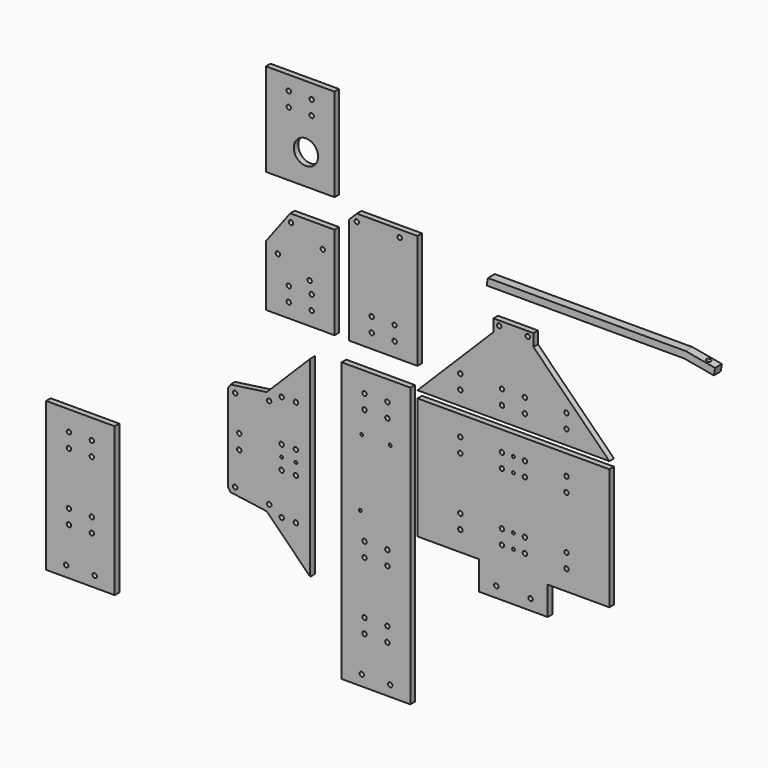
from build123d import *

# Parameters (mm, degrees)
F0_R      = 1.55
F0_R_2    = 1
F1_DEPTH  = 4
F2_DEPTH  = 4
F0_W      = 48
F0_H      = 195
F3_DEPTH  = 4
F4_DEPTH  = 4
F0_H_2    = 65
F0_R_3    = 8.5
F5_DEPTH  = 4
F6_DEPTH  = 6
F7_R      = 1.55
F8_DEPTH  = 6
F9_R      = 1.55
F10_DEPTH = 25
F9_R_2    = 2.25
F11_DEPTH = 30
F9_R_3    = 2.375
F12_DEPTH = 10
F13_R     = 1.55
F14_DEPTH = 2
F0_H_3    = 104
F15_DEPTH = 4


with BuildPart() as f1:
    # F0 (on Front) → F1 (new body)
    with BuildSketch(Plane.XZ):
        Polygon((134.2, -5), (0, -5), (0, -90), (43.1, -90), (43.1, -110), (91.1, -110), (91.1, -90), (134.2, -90), align=None)
        with Locations((30, -76)):
            Circle(F0_R, mode=Mode.SUBTRACT)
        with Locations((30, -66)):
            Circle(F0_R, mode=Mode.SUBTRACT)
        with Locations((55.1306, -102.5)):
            Circle(F0_R, mode=Mode.SUBTRACT)
        with Locations((79.1, -102.5)):
            Circle(F0_R, mode=Mode.SUBTRACT)
        with Locations((59.1, -76)):
            Circle(F0_R, mode=Mode.SUBTRACT)
        with Locations((59.1, -66)):
            Circle(F0_R, mode=Mode.SUBTRACT)
        with Locations((67.1153, -76)):
            Circle(F0_R_2, mode=Mode.SUBTRACT)
        with Locations((75.1306, -76)):
            Circle(F0_R, mode=Mode.SUBTRACT)
        with Locations((67.1153, -66)):
            Circle(F0_R_2, mode=Mode.SUBTRACT)
        with Locations((75.1306, -66)):
            Circle(F0_R, mode=Mode.SUBTRACT)
        with Locations((30, -29)):
            Circle(F0_R, mode=Mode.SUBTRACT)
        with Locations((30, -19)):
            Circle(F0_R, mode=Mode.SUBTRACT)
        with Locations((59.1, -29)):
            Circle(F0_R, mode=Mode.SUBTRACT)
        with Locations((59.1, -19)):
            Circle(F0_R, mode=Mode.SUBTRACT)
        with Locations((67.1153, -29)):
            Circle(F0_R_2, mode=Mode.SUBTRACT)
        with Locations((75.1306, -29)):
            Circle(F0_R, mode=Mode.SUBTRACT)
        with Locations((67.1153, -19)):
            Circle(F0_R_2, mode=Mode.SUBTRACT)
        with Locations((75.1306, -19)):
            Circle(F0_R, mode=Mode.SUBTRACT)
        with Locations((104.2306, -76)):
            Circle(F0_R, mode=Mode.SUBTRACT)
        with Locations((104.2306, -66)):
            Circle(F0_R, mode=Mode.SUBTRACT)
        with Locations((104.2306, -29)):
            Circle(F0_R, mode=Mode.SUBTRACT)
        with Locations((104.2306, -19)):
            Circle(F0_R, mode=Mode.SUBTRACT)
    extrude(amount=F1_DEPTH)


with BuildPart() as f1b:
    # F0 (on Front) → F1, piece 2 (new body)
    with BuildSketch(Plane.XZ):
        Polygon((53.1153, 53.0305), (0, 0), (134.2089, 0), (81.1153, 53.0305), (81.1153, 61.5671), (53.1153, 61.5671), align=None)
        with Locations((30.0103, 10)):
            Circle(F0_R, mode=Mode.SUBTRACT)
        with Locations((30.0103, 20)):
            Circle(F0_R, mode=Mode.SUBTRACT)
        with Locations((59.1153, 10)):
            Circle(F0_R, mode=Mode.SUBTRACT)
        with Locations((59.1153, 20)):
            Circle(F0_R, mode=Mode.SUBTRACT)
        with Locations((75.1153, 10)):
            Circle(F0_R, mode=Mode.SUBTRACT)
        with Locations((75.1153, 20)):
            Circle(F0_R, mode=Mode.SUBTRACT)
        with Locations((57.1153, 58.2416341319)):
            Circle(F0_R, mode=Mode.SUBTRACT)
        with Locations((77.1153, 58.2416341319)):
            Circle(F0_R, mode=Mode.SUBTRACT)
        with Locations((104.2203, 10)):
            Circle(F0_R, mode=Mode.SUBTRACT)
        with Locations((104.2203, 20)):
            Circle(F0_R, mode=Mode.SUBTRACT)
    extrude(amount=F1_DEPTH)


with BuildPart() as f1c:
    # F0 (on Front) → F1, piece 3 (new body)
    with BuildSketch(Plane.XZ):
        Polygon((-75, -139.2089), (-75, -5), (-105.405591591, -35.405591591), (-130.7258548675, -38.9641225268), (-132.3597719725, -41.4801342306), (-132.3597719725, -102.7287657694), (-130.7258548675, -105.2447774732), (-105.405591591, -108.803308409), align=None)
        with Locations((-95, -109.20945)):
            Circle(F0_R, mode=Mode.SUBTRACT)
        with Locations((-85, -109.20945)):
            Circle(F0_R, mode=Mode.SUBTRACT)
        with Locations((-127.5146362143, -101.0255576394)):
            Circle(F0_R, mode=Mode.SUBTRACT)
        with Locations((-103.6935285749, -103.9504218811)):
            Circle(F0_R, mode=Mode.SUBTRACT)
        with Locations((-124.5897719725, -77.20445)):
            Circle(F0_R, mode=Mode.SUBTRACT)
        with Locations((-124.5897719725, -67.00445)):
            Circle(F0_R, mode=Mode.SUBTRACT)
        with Locations((-95, -80.10445)):
            Circle(F0_R, mode=Mode.SUBTRACT)
        with Locations((-85, -80.10445)):
            Circle(F0_R, mode=Mode.SUBTRACT)
        with Locations((-95, -72.10445)):
            Circle(F0_R_2, mode=Mode.SUBTRACT)
        with Locations((-85, -72.10445)):
            Circle(F0_R_2, mode=Mode.SUBTRACT)
        with Locations((-95, -64.10445)):
            Circle(F0_R, mode=Mode.SUBTRACT)
        with Locations((-85, -64.10445)):
            Circle(F0_R, mode=Mode.SUBTRACT)
        with Locations((-127.5146362143, -43.1833423606)):
            Circle(F0_R, mode=Mode.SUBTRACT)
        with Locations((-103.6935285749, -40.2584781189)):
            Circle(F0_R, mode=Mode.SUBTRACT)
        with Locations((-95, -34.99945)):
            Circle(F0_R, mode=Mode.SUBTRACT)
        with Locations((-85, -34.99945)):
            Circle(F0_R, mode=Mode.SUBTRACT)
    extrude(amount=F1_DEPTH)


with BuildPart() as f2:
    # F0 (on Front) → F2 (new body)
    with BuildSketch(Plane.XZ):
        Polygon((-48, 15), (0, 15), (0, 95), (-42.4, 95), (-48, 89.4), align=None)
        with Locations((-32, 25)):
            Circle(F0_R, mode=Mode.SUBTRACT)
        with Locations((-32, 35)):
            Circle(F0_R, mode=Mode.SUBTRACT)
        with Locations((-42.4, 90)):
            Circle(F0_R, mode=Mode.SUBTRACT)
        with Locations((-16, 25)):
            Circle(F0_R, mode=Mode.SUBTRACT)
        with Locations((-16, 35)):
            Circle(F0_R, mode=Mode.SUBTRACT)
        with Locations((-12.4, 90)):
            Circle(F0_R, mode=Mode.SUBTRACT)
    extrude(amount=F2_DEPTH)


with BuildPart() as f3:
    # F0 (on Front) → F3 (new body)
    with BuildSketch(Plane.XZ):
        with Locations((-29, -97.5)):
            Rectangle(F0_W, F0_H)
        with Locations((-39, -187.5)):
            Circle(F0_R, mode=Mode.SUBTRACT)
        with Locations((-37, -162)):
            Circle(F0_R, mode=Mode.SUBTRACT)
        with Locations((-37, -152)):
            Circle(F0_R, mode=Mode.SUBTRACT)
        with Locations((-37, -115)):
            Circle(F0_R, mode=Mode.SUBTRACT)
        with Locations((-37, -105)):
            Circle(F0_R, mode=Mode.SUBTRACT)
        with Locations((-40, -87)):
            Circle(F0_R_2, mode=Mode.SUBTRACT)
        with Locations((-39, -40)):
            Circle(F0_R_2, mode=Mode.SUBTRACT)
        with Locations((-37, -24)):
            Circle(F0_R, mode=Mode.SUBTRACT)
        with Locations((-19, -187.5)):
            Circle(F0_R, mode=Mode.SUBTRACT)
        with Locations((-21, -162)):
            Circle(F0_R, mode=Mode.SUBTRACT)
        with Locations((-21, -152)):
            Circle(F0_R, mode=Mode.SUBTRACT)
        with Locations((-21, -115)):
            Circle(F0_R, mode=Mode.SUBTRACT)
        with Locations((-21, -105)):
            Circle(F0_R, mode=Mode.SUBTRACT)
        with Locations((-19, -40)):
            Circle(F0_R_2, mode=Mode.SUBTRACT)
        with Locations((-21, -24)):
            Circle(F0_R, mode=Mode.SUBTRACT)
        with Locations((-37, -14)):
            Circle(F0_R, mode=Mode.SUBTRACT)
        with Locations((-21, -14)):
            Circle(F0_R, mode=Mode.SUBTRACT)
    extrude(amount=F3_DEPTH)


with BuildPart() as f4:
    # F0 (on Front) → F4 (new body)
    with BuildSketch(Plane.XZ):
        Polygon((-106, 15), (-58, 15), (-58, 80), (-89, 80), (-106, 57.33), align=None)
        with Locations((-90, 25)):
            Circle(F0_R, mode=Mode.SUBTRACT)
        with Locations((-74, 25)):
            Circle(F0_R, mode=Mode.SUBTRACT)
        with Locations((-90, 35)):
            Circle(F0_R, mode=Mode.SUBTRACT)
        with Locations((-97.5904, 52.277)):
            Circle(F0_R, mode=Mode.SUBTRACT)
        with Locations((-88.4040744743, 74.4493120882)):
            Circle(F0_R, mode=Mode.SUBTRACT)
        with Locations((-74, 35)):
            Circle(F0_R, mode=Mode.SUBTRACT)
        with Locations((-75.41, 43.09)):
            Circle(F0_R, mode=Mode.SUBTRACT)
        with Locations((-66.233, 65.26)):
            Circle(F0_R, mode=Mode.SUBTRACT)
        Polygon((-106, 15), (-58, 15), (-58, 80), (-89, 80), (-106, 57.33), align=None)
        with Locations((-90, 25)):
            Circle(F0_R, mode=Mode.SUBTRACT)
        with Locations((-74, 25)):
            Circle(F0_R, mode=Mode.SUBTRACT)
        with Locations((-90, 35)):
            Circle(F0_R, mode=Mode.SUBTRACT)
        with Locations((-97.5904, 52.277)):
            Circle(F0_R, mode=Mode.SUBTRACT)
        with Locations((-88.4040744743, 74.4493120882)):
            Circle(F0_R, mode=Mode.SUBTRACT)
        with Locations((-74, 35)):
            Circle(F0_R, mode=Mode.SUBTRACT)
        with Locations((-75.41, 43.09)):
            Circle(F0_R, mode=Mode.SUBTRACT)
        with Locations((-66.233, 65.26)):
            Circle(F0_R, mode=Mode.SUBTRACT)
    extrude(amount=F4_DEPTH)


with BuildPart() as f5:
    # F0 (on Front) → F5 (new body)
    with BuildSketch(Plane.XZ):
        with Locations((-82, 132.5)):
            Rectangle(F0_W, F0_H_2)
        with Locations((-90, 145)):
            Circle(F0_R, mode=Mode.SUBTRACT)
        with Locations((-90, 155)):
            Circle(F0_R, mode=Mode.SUBTRACT)
        with Locations((-78, 121.228)):
            Circle(F0_R_3, mode=Mode.SUBTRACT)
        with Locations((-74, 145)):
            Circle(F0_R, mode=Mode.SUBTRACT)
        with Locations((-74, 155)):
            Circle(F0_R, mode=Mode.SUBTRACT)
    extrude(amount=F5_DEPTH)


with BuildPart() as f6:
    # F0 (on Front) → F6 (new body)
    with BuildSketch(Plane.XZ):
        Polygon((189.1672408883, 86.4911387651), (50.8687408883, 86.4911387651), (50.4343704442, 84.0291193825), (188.7331204442, 84.0291193825), align=None)
        Polygon((188.7331204442, 84.0291193825), (50.4343704442, 84.0291193825), (50, 81.5671), (188.299, 81.5671), align=None)
        Polygon((202.8449704442, 84.0291193825), (188.7331204442, 84.0291193825), (188.299, 81.5671), (208.8660103592, 77.8649959382), (209.7342512476, 82.7890347032), align=None)
        Polygon((202.8449704442, 84.0291193825), (189.1672408883, 86.4911387651), (188.7331204442, 84.0291193825), align=None)
    extrude(amount=F6_DEPTH)

    # F7 (on face) → F8 (cut)
    with BuildSketch(Plane(origin=(21.0167815127, 0, 116.7585664455), x_dir=(0.9841829719, 0, -0.1771549542), z_dir=(0.1771549542, 0, 0.9841829719))):
        with Locations((184.7503910554, -3)):
            Circle(F7_R)
    extrude(amount=-F8_DEPTH, mode=Mode.SUBTRACT)

    # F9 (on face) → F10 (cut)
    with BuildSketch(Plane(origin=(34.5342874035, 0, -6.0928333322), x_dir=(0, -1, 0), z_dir=(-0.9847906475, 0, 0.1737451598))):
        with Locations((3, 91.5138620628)):
            Circle(F9_R)
    extrude(amount=-F10_DEPTH, mode=Mode.SUBTRACT)

    # F9 (on face) → F11 (cut)
    with BuildSketch(Plane(origin=(34.5342874035, 0, -6.0928333322), x_dir=(0, -1, 0), z_dir=(-0.9847906475, 0, 0.1737451598))):
        with Locations((3, 91.5138620628)):
            Circle(F9_R_2)
        with Locations((3, 91.5138620628)):
            Circle(F9_R, mode=Mode.SUBTRACT)
    extrude(amount=-F11_DEPTH, mode=Mode.SUBTRACT)

    # F9 (on face) → F12 (join)
    with BuildSketch(Plane(origin=(34.5342874035, 0, -6.0928333322), x_dir=(0, -1, 0), z_dir=(-0.9847906475, 0, 0.1737451598))):
        with Locations((3, 91.5138620628)):
            Circle(F9_R_3)
        with Locations((3, 91.5138620628)):
            Circle(F9_R_2, mode=Mode.SUBTRACT)
        with Locations((3, 91.5138620628)):
            Circle(F9_R_2)
        with Locations((3, 91.5138620628)):
            Circle(F9_R, mode=Mode.SUBTRACT)
    extrude(amount=-F12_DEPTH)

    # F13 (on face) → F14 (cut)
    with BuildSketch(Plane(origin=(20.1310123611, 0, 111.8376828038), x_dir=(0.9841829719, 0, -0.1771549542), z_dir=(-0.1771549542, 0, -0.9841829719))):
        Polygon((182.7503910554, 4.1547005384), (182.7503910554, 1.8452994616), (184.7503910554, 0.6905989232), (186.7503910554, 1.8452994616), (186.7503910554, 4.1547005384), (184.7503910554, 5.3094010768), align=None)
        with Locations((184.7503910554, 3)):
            Circle(F13_R, mode=Mode.SUBTRACT)
    extrude(amount=-F14_DEPTH, mode=Mode.SUBTRACT)


with BuildPart() as f15:
    # F0 (on Front) → F15 (new body)
    with BuildSketch(Plane.XZ):
        with Locations((-235.7195439451, -143)):
            Rectangle(F0_W, F0_H_3)
        with Locations((-245.7195439451, -187.5)):
            Circle(F0_R, mode=Mode.SUBTRACT)
        with Locations((-225.7195439451, -187.5)):
            Circle(F0_R, mode=Mode.SUBTRACT)
        with Locations((-243.7195439451, -162)):
            Circle(F0_R, mode=Mode.SUBTRACT)
        with Locations((-243.7195439451, -152)):
            Circle(F0_R, mode=Mode.SUBTRACT)
        with Locations((-227.7195439451, -162)):
            Circle(F0_R, mode=Mode.SUBTRACT)
        with Locations((-227.7195439451, -152)):
            Circle(F0_R, mode=Mode.SUBTRACT)
        with Locations((-243.7195439451, -115)):
            Circle(F0_R, mode=Mode.SUBTRACT)
        with Locations((-227.7195439451, -115)):
            Circle(F0_R, mode=Mode.SUBTRACT)
        with Locations((-243.7195439451, -105)):
            Circle(F0_R, mode=Mode.SUBTRACT)
        with Locations((-227.7195439451, -105)):
            Circle(F0_R, mode=Mode.SUBTRACT)
    extrude(amount=F15_DEPTH)


solid = Compound([f1.part, f1b.part, f1c.part, f2.part, f3.part, f4.part, f5.part, f6.part, f15.part])
